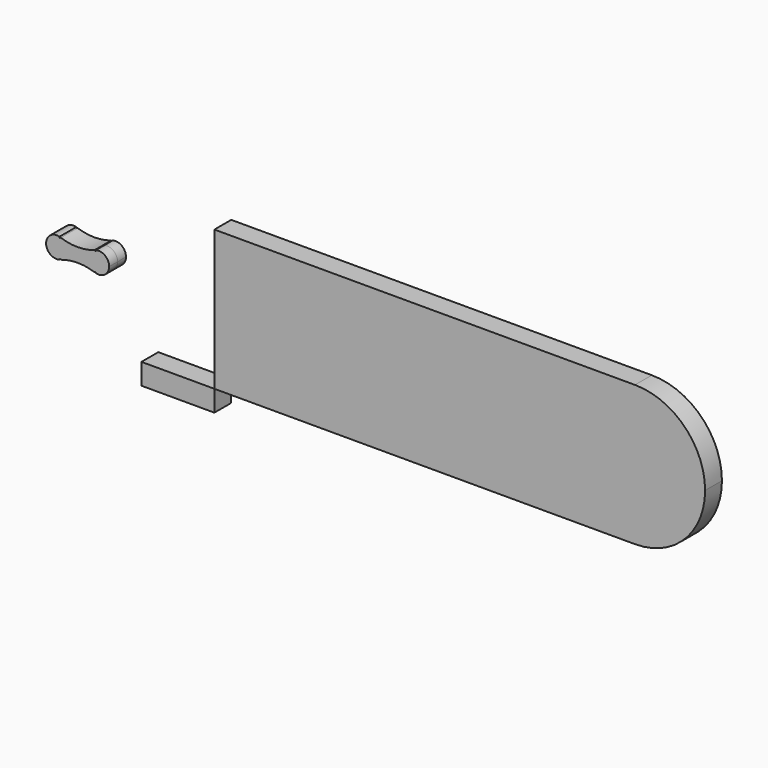
from build123d import *

# Parameters (mm, degrees)
F2_DEPTH = 7.5
F3_W     = 52.0147429434
F3_H     = 15
F4_DEPTH = 7.5
F6_DEPTH = 7.5
F7_R     = 0.5
F8_DEPTH = 25


with BuildPart() as f2:
    # F1 (on Front) → F2 (new body, symmetric)
    with BuildSketch(Plane.XZ):
        with BuildLine():
            Line((0, 100), (0, 0))
            Line((0, 0), (300, 0))
            ThreePointArc((300, 0), (250, 50), (300, 100))
            Line((300, 100), (0, 100))
        make_face()
        with BuildLine():
            ThreePointArc((300, 100), (250, 50), (300, 0))
            Line((300, 0), (300, 100))
        make_face()
        with BuildLine():
            Line((300, 100), (300, 0))
            ThreePointArc((300, 0), (335.3553390593, 14.6446609407), (350, 50))
            ThreePointArc((350, 50), (335.3553390593, 85.3553390593), (300, 100))
        make_face()
    extrude(amount=F2_DEPTH, both=True)


with BuildPart() as f4:
    # F3 (on Front) → F4 (new body, symmetric)
    with BuildSketch(Plane.XZ):
        with Locations((-26.0073714717, -7.5)):
            Rectangle(F3_W, F3_H)
    extrude(amount=F4_DEPTH, both=True)


with BuildPart() as f6:
    # F5 (on Front) → F6 (new body, symmetric)
    with BuildSketch(Plane.XZ):
        with BuildLine():
            ThreePointArc((-110.0521796982, 45.2602605215), (-106.4284552261, 48.0012013012), (-105.0521795322, 52.331328392))
            ThreePointArc((-105.0521795322, 52.331328392), (-106.4284552185, 56.6614554721), (-110.0521796734, 59.4023962538))
            ThreePointArc((-110.0521796734, 59.4023962538), (-120.0521795322, 52.3313284051), (-110.0521796982, 45.2602605215))
        make_face()
        with BuildLine():
            ThreePointArc((-110.0521796734, 59.4023962538), (-106.4284552185, 56.6614554721), (-105.0521795322, 52.331328392))
            ThreePointArc((-105.0521795322, 52.331328392), (-106.4284552261, 48.0012013012), (-110.0521796982, 45.2602605215))
            ThreePointArc((-110.0521796982, 45.2602605215), (-97.5521795322, 47.4049215208), (-85.0521793663, 45.2602605215))
            ThreePointArc((-85.0521793663, 45.2602605215), (-90.0521795322, 52.3313284476), (-85.0521792615, 59.4023962996))
            ThreePointArc((-85.0521792615, 59.4023962996), (-97.5521794635, 57.2577352632), (-110.0521796734, 59.4023962538))
        make_face()
        with BuildLine():
            ThreePointArc((-75.0521795322, 52.331328392), (-78.2220523961, 58.4550526661), (-85.0521792615, 59.4023962996))
            ThreePointArc((-85.0521792615, 59.4023962996), (-90.0521795322, 52.3313284476), (-85.0521793663, 45.2602605215))
            ThreePointArc((-85.0521793663, 45.2602605215), (-78.2220524414, 46.2076040859), (-75.0521795322, 52.331328392))
        make_face()
    extrude(amount=F6_DEPTH, both=True)

    # F7 (on face) → F8 (cut)
    with BuildSketch(Plane.XZ.offset(7.5)):
        with Locations((-110.0521795322, 59.4023962039)):
            Circle(F7_R)
        with Locations((-85.0521795322, 59.4023962039)):
            Circle(F7_R)
        with Locations((-85.0521795322, 45.2602605802)):
            Circle(F7_R)
        with Locations((-110.0521795322, 45.2602605802)):
            Circle(F7_R)
    extrude(amount=-F8_DEPTH, mode=Mode.SUBTRACT)


solid = Compound([f2.part, f4.part, f6.part])
